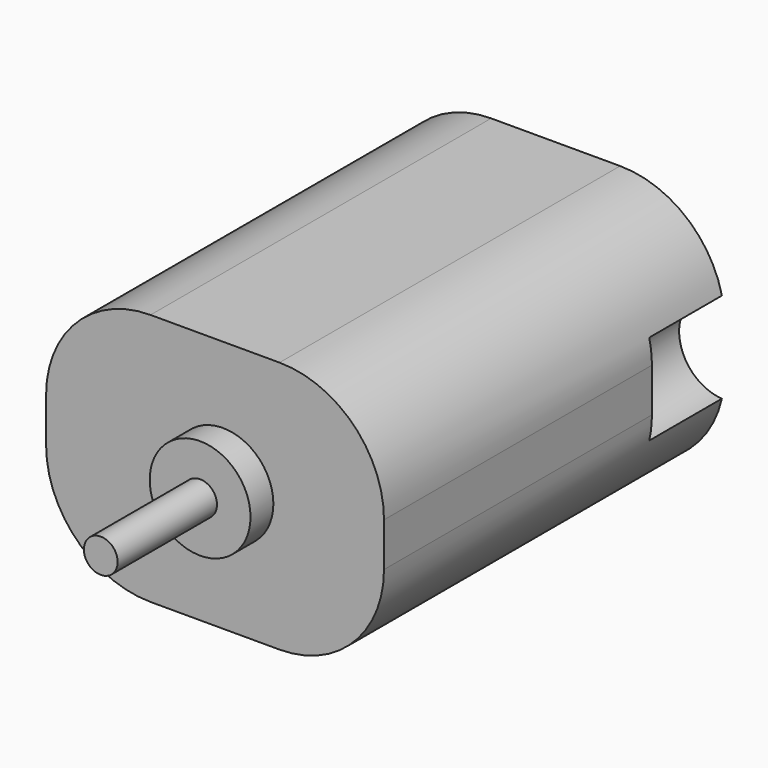
from build123d import *

# Parameters (mm, degrees)
F0_W      = 19.8374
F0_H      = 24.9936
F1_DEPTH  = 14.8336
F2_R      = 2.9591
F2_R_2    = 0.9906
F3_DEPTH  = 1.6764
F3_FACE_R = 0.9906
F4_DEPTH  = 8.9662
F5_R      = 6.132102
F6_R      = 0.9779
F7_DEPTH  = 2.032
F7_FACE_R = 0.9779
F8_DEPTH  = 3.302
F9_R      = 2.667
F10_DEPTH = 5.334


with BuildPart() as f1:
    # F0 (on Top) → F1 (new body)
    with BuildSketch(Plane.XY):
        with Locations((-0.465175, 7.303395)):
            Rectangle(F0_W, F0_H)
    extrude(amount=F1_DEPTH)

    # F2 (on face) → F3 (join)
    with BuildSketch(Plane.XZ.offset(5.193405)):
        with Locations((0, 7.4168)):
            Circle(F2_R)
        with Locations((0, 7.4168)):
            Circle(F2_R_2, mode=Mode.SUBTRACT)
    extrude(amount=F3_DEPTH)

    # F3_face (on face) → F4 (join)
    with BuildSketch(Plane(origin=(0, -5.193405, 7.4168), x_dir=(1, 0, 0), z_dir=(0, -1, 0))):
        Circle(F3_FACE_R)
    extrude(amount=F4_DEPTH)

    # F5
    f5_edges = [f1.edges().sort_by_distance(p)[0] for p in [
        (9.453525, 7.303395, 14.8336),
        (9.453525, 7.303395, 0),
        (-10.383875, 7.303395, 14.8336),
        (-10.383875, 7.303395, 0),
    ]]
    fillet(f5_edges, radius=F5_R)

    # F6 (on face) → F7 (join)
    with BuildSketch(Plane(origin=(0, 19.800195, 0), x_dir=(-1, 0, 0), z_dir=(0, 1, 0))):
        with BuildLine():
            ThreePointArc((-3.009659, 11.3665), (-2.20376, 2.966899), (4.9657, 7.4168))
            ThreePointArc((4.9657, 7.4168), (4.449901, 9.62056), (3.009659, 11.3665))
            Line((3.009659, 11.3665), (-3.009659, 11.3665))
        make_face()
        with Locations((0, 7.4168)):
            Circle(F6_R, mode=Mode.SUBTRACT)
    extrude(amount=F7_DEPTH)

    # F7_face (on face) → F8 (join)
    with BuildSketch(Plane(origin=(0, 19.800195, 7.4168), x_dir=(-1, 0, 0), z_dir=(0, 1, 0))):
        Circle(F7_FACE_R)
    extrude(amount=F8_DEPTH)

    # F9 (on face) → F10 (cut)
    with BuildSketch(Plane(origin=(0, 19.800195, 0), x_dir=(-1, 0, 0), z_dir=(0, 1, 0))):
        with Locations((-9.453525, 7.4168)):
            Circle(F9_R)
        with Locations((10.383875, 7.4168)):
            Circle(F9_R)
    extrude(amount=-F10_DEPTH, mode=Mode.SUBTRACT)


solid = f1.part
